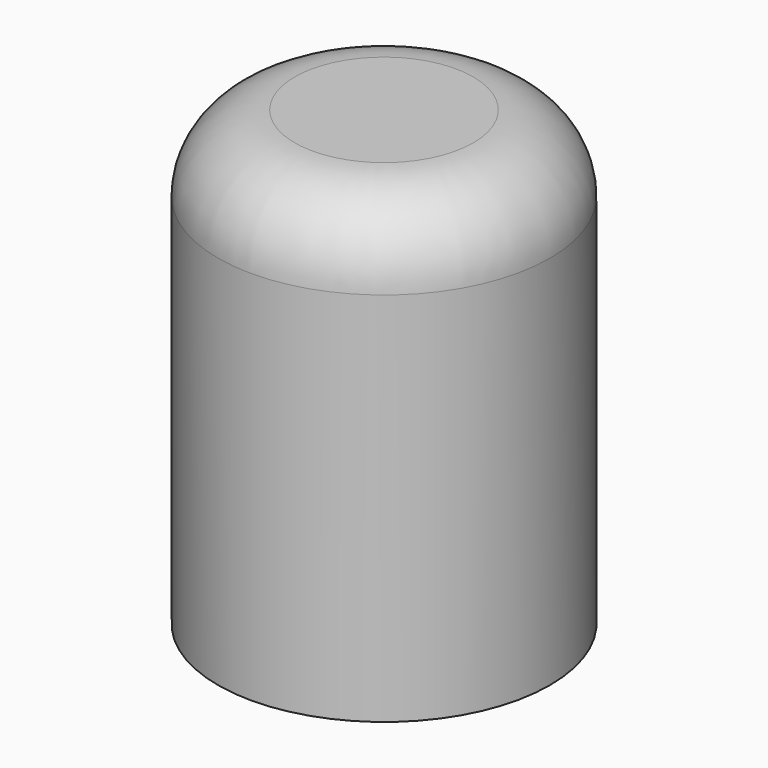
from build123d import *

# Parameters (mm, degrees)
F0_R           = 11
F1_DEPTH       = 30
F2_D           = 10.8
F2_DEPTH       = 25.4
F2_CBORE_D     = 19.25
F2_CBORE_DEPTH = 12
F2_TIP         = 3.2446473427
F3_R           = 5.08


with BuildPart() as f1:
    # F0 (on Top) → F1 (new body)
    with BuildSketch(Plane.XY):
        Circle(F0_R)
    extrude(amount=F1_DEPTH)

    # F2
    with Locations(Plane(origin=(0, 0, 0), x_dir=(1, 0, 0), z_dir=(0, 0, -1))):
        with Locations((0, 0)):
            CounterBoreHole(F2_D / 2, F2_CBORE_D / 2, F2_CBORE_DEPTH, depth=F2_DEPTH)
            with Locations((0, 0, -(F2_DEPTH + F2_TIP / 2))):  # 118° drill point
                Cone(0, F2_D / 2, F2_TIP, mode=Mode.SUBTRACT)

    # F3
    f3_edges = [f1.edges().sort_by_distance(p)[0] for p in [
        (-11, 0, 30),
    ]]
    fillet(f3_edges, radius=F3_R)


solid = f1.part
